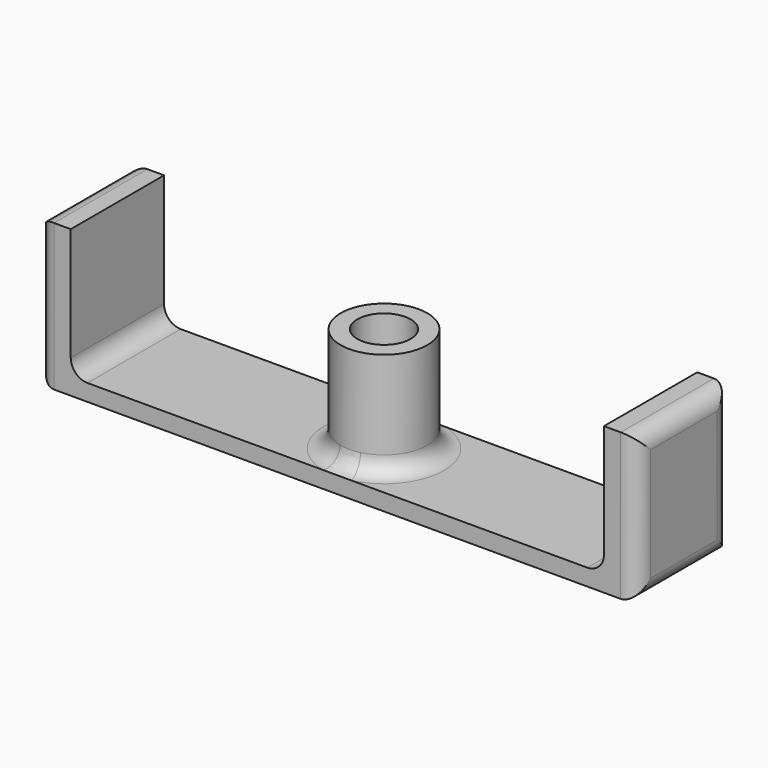
from build123d import *

# Parameters (mm, degrees)
F0_W     = 32
F0_H     = 7
F0_R     = 2.6
F0_W_2   = 2
F0_R_2   = 1.6
F1_DEPTH = 1
F2_DEPTH = 8.8
F3_DEPTH = 7.3
F4_R     = 1
F5_R     = 1


with BuildPart() as f1:
    # F0 (on Top) → F1 (new body)
    with BuildSketch(Plane.XY):
        Rectangle(F0_W, F0_H)
        Circle(F0_R, mode=Mode.SUBTRACT)
        with Locations((-17, 0)):
            Rectangle(F0_W_2, F0_H)
        with Locations((17, 0)):
            Rectangle(F0_W_2, F0_H)
        Circle(F0_R)
        Circle(F0_R_2, mode=Mode.SUBTRACT)
    extrude(amount=F1_DEPTH)

    # F0 (on Top) → F2 (join)
    with BuildSketch(Plane.XY):
        with Locations((-17, 0)):
            Rectangle(F0_W_2, F0_H)
        with Locations((17, 0)):
            Rectangle(F0_W_2, F0_H)
    extrude(amount=F2_DEPTH)

    # F0 (on Top) → F3 (join)
    with BuildSketch(Plane.XY):
        Circle(F0_R)
        Circle(F0_R_2, mode=Mode.SUBTRACT)
    extrude(amount=F3_DEPTH)

    # F4
    f4_edges = [f1.edges().sort_by_distance(p)[0] for p in [
        (-16, 0, 1),
        (16, 0, 1),
        (-18, 0, 0),
        (18, 0, 0),
        (-18, 0, 8.8),
        (18, 0, 8.8),
        (-18, -3.5, 4.4),
        (-18, 3.5, 4.4),
        (18, -3.5, 4.4),
        (18, 3.5, 4.4),
    ]]
    fillet(f4_edges, radius=F4_R)

    # F5
    f5_edges = [f1.edges().sort_by_distance(p)[0] for p in [
        (-2.6, 0, 1),
    ]]
    fillet(f5_edges, radius=F5_R)


solid = f1.part
